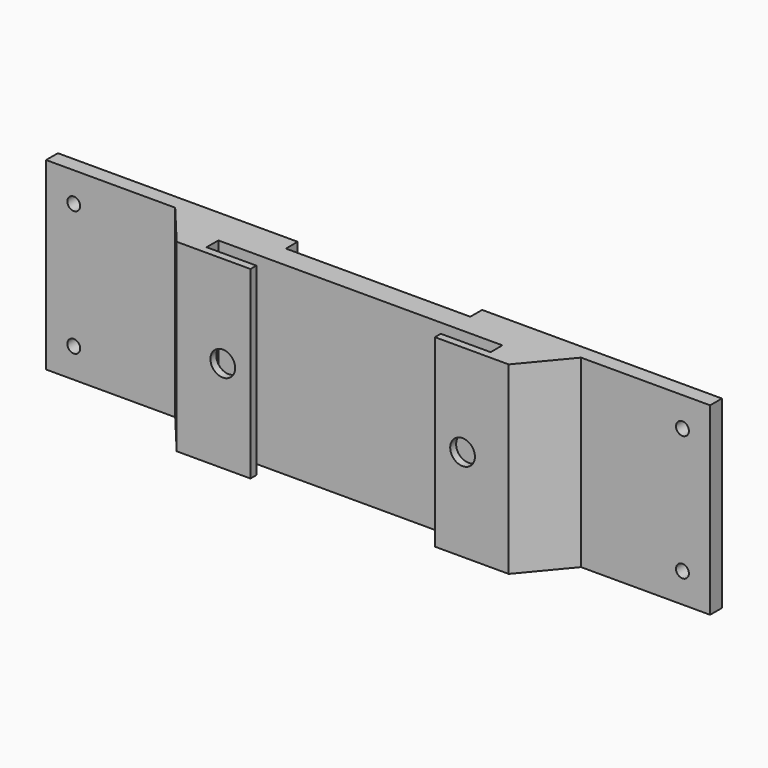
from build123d import *

# Parameters (mm, degrees)
SKETCH001_AS_DRAWN_R                 = 1.75
SKETCH001_AS_DRAWN_R_2               = 2.6
EXTRUDE003_DEPTH                     = 25
EXTRUDE003_ONTO_SKETCH001_ROLL_ANGLE = 90
SKETCH002_AS_DRAWN_R                 = 3.35
EXTRUDE002_DEPTH                     = 3
EXTRUDE002_ONTO_SKETCH002_ROLL_ANGLE = 90
EXTRUDE_DEPTH                        = 50


with BuildPart() as extrude003:
    # Sketch001 as drawn → Extrude003 (new)
    with BuildSketch(Plane.XY):
        with Locations((-82.5, -17)):
            Circle(SKETCH001_AS_DRAWN_R)
        with Locations((82.5, 17)):
            Circle(SKETCH001_AS_DRAWN_R)
        with Locations((82.5, -17)):
            Circle(SKETCH001_AS_DRAWN_R)
        with Locations((-32.5, 0)):
            Circle(SKETCH001_AS_DRAWN_R_2)
        with Locations((32.5, 0)):
            Circle(SKETCH001_AS_DRAWN_R_2)
        with Locations((-82.5, 17)):
            Circle(SKETCH001_AS_DRAWN_R)
    extrude(amount=-EXTRUDE003_DEPTH)


with BuildPart() as extrude003_1:
    # Extrude003 onto Sketch001 roll: moved
    add(extrude003.part.rotate(Axis((0, 0, 0), (1, 0, 0)), EXTRUDE003_ONTO_SKETCH001_ROLL_ANGLE))


with BuildPart() as extrude003_2:
    # Extrude003 onto Sketch001 placement: moved
    add(extrude003_1.part.moved(Location((0, 0, 25))))


with BuildPart() as fusion:
    # Sketch002 as drawn → Extrude002 (new)
    with BuildSketch(Plane.XY):
        with Locations((-32.5, 0)):
            Circle(SKETCH002_AS_DRAWN_R)
        with Locations((32.5, 0)):
            Circle(SKETCH002_AS_DRAWN_R)
    extrude(amount=-EXTRUDE002_DEPTH)


with BuildPart() as fusion_1:
    # Extrude002 onto Sketch002 roll: moved
    add(fusion.part.rotate(Axis((0, 0, 0), (1, 0, 0)), EXTRUDE002_ONTO_SKETCH002_ROLL_ANGLE))


with BuildPart() as fusion_2:
    # Extrude002 onto Sketch002 placement: moved
    add(fusion_1.part.moved(Location((0, 0, 25))))

    # Fusion: union Extrude003
    add(extrude003_2.part)


with BuildPart() as cut:
    # Sketch → Extrude (new body)
    with BuildSketch(Plane.XY):
        Polygon((90, 16), (90, 12), (55, 12), (45, 0), (25, 0), (25, 2), (38.5, 2), (38.5, 6), (-38.5, 6), (-38.5, 2), (-25, 2), (-25, 0), (-45, 0), (-55, 12), (-90, 12), (-90, 16), (-25, 16), (-25, 12), (25, 12), (25, 16), align=None)
    extrude(amount=EXTRUDE_DEPTH)

    # Cut: cut Fusion
    add(fusion_2.part, mode=Mode.SUBTRACT)


solid = cut.part
